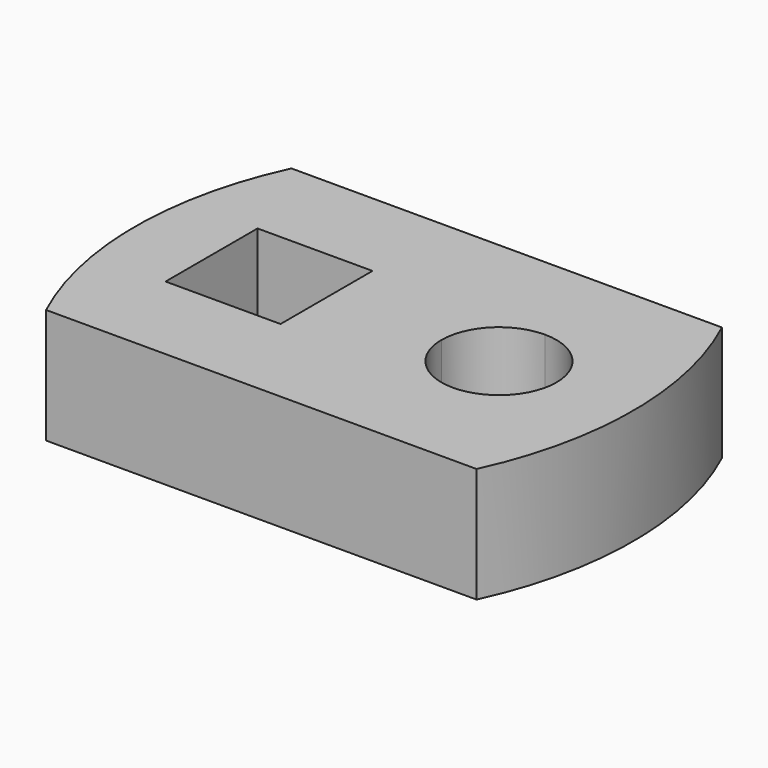
from build123d import *

# Parameters (mm, degrees)
F1_DEPTH = 6


with BuildPart() as f1:
    # F0 (on Top) → F1 (new body)
    with BuildSketch(Plane.XY):
        with BuildLine():
            Line((5.233688, 8), (0, 8))
            Line((0, 8), (-17.233688, 8))
            ThreePointArc((-17.233688, 8), (-19, 0), (-17.233688, -8))
            Line((-17.233688, -8), (5.233688, -8))
            ThreePointArc((5.233688, -8), (7, 0), (5.233688, 8))
        make_face()
        Polygon((-9, 3), (-9, 0), (-9, -3), (-15, -3), (-15, 3), align=None, mode=Mode.SUBTRACT)
        with BuildLine():
            ThreePointArc((0, 3), (2.12132, 2.12132), (3, 0))
            ThreePointArc((3, 0), (0, -3), (-3, 0))
            ThreePointArc((-3, 0), (-2.12132, 2.12132), (0, 3))
        make_face(mode=Mode.SUBTRACT)
    extrude(amount=F1_DEPTH)


solid = f1.part
